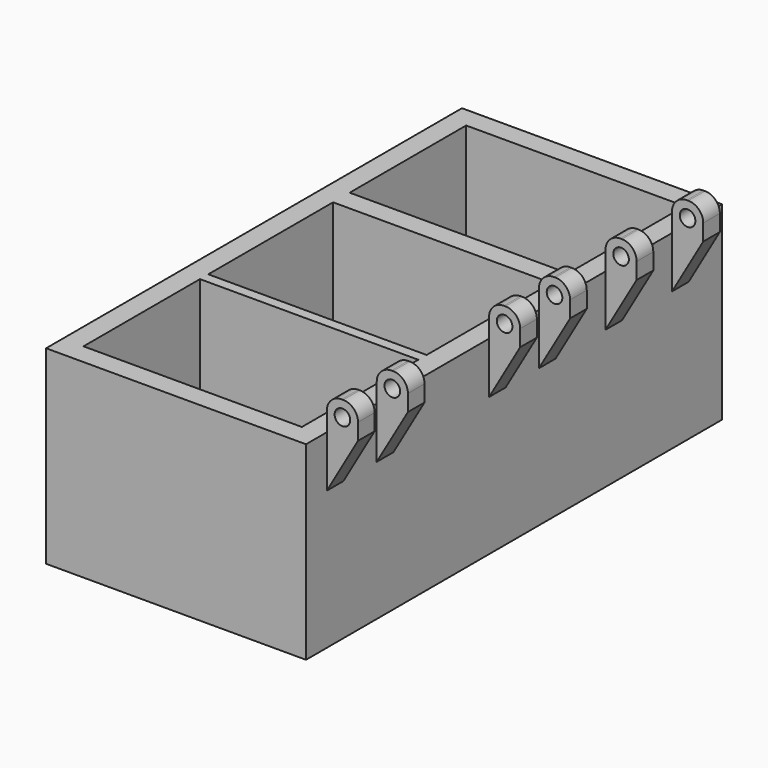
from build123d import *

# Parameters (mm, degrees)
F0_W      = 50
F0_H      = 100
F0_W_2    = 42
F0_H_2    = 60
F0_H_3    = 28
F1_DEPTH  = 35
F2_W      = 50
F2_H      = 100
F3_DEPTH  = 2
F4_R      = 1.5
F5_DEPTH  = 100
F6_R      = 2.85
F7_W      = 15
F7_H      = 5
F7_H_2    = 12
F7_H_3    = 8
F7_H_4    = 23
F8_DEPTH  = 74.9
F9_W      = 42
F9_H      = 60
F9_H_2    = 28
F10_DEPTH = 0.5
F11_W     = 42
F11_H     = 2
F12_DEPTH = 34.5


with BuildPart() as f1:
    # F0 (on Top) → F1 (new body)
    with BuildSketch(Plane.XY):
        with Locations((25, 50)):
            Rectangle(F0_W, F0_H)
        with Locations((25, 34)):
            Rectangle(F0_W_2, F0_H_2, mode=Mode.SUBTRACT)
        with Locations((25, 82)):
            Rectangle(F0_W_2, F0_H_3, mode=Mode.SUBTRACT)
    extrude(amount=F1_DEPTH)

    # F2 (on face) → F3 (join)
    with BuildSketch(Plane(origin=(0, 0, 0), x_dir=(1, 0, 0), z_dir=(0, 0, -1))):
        with Locations((25, -50)):
            Rectangle(F2_W, F2_H)
    extrude(amount=F3_DEPTH)

    # F4 (on face) → F5 (join, through all)
    with BuildSketch(Plane.XZ):
        Polygon((50, 35), (50, 24.607695), (56, 35), (56, 41), (50, 41), align=None)
        with Locations((53, 38)):
            Circle(F4_R, mode=Mode.SUBTRACT)
    extrude(amount=-F5_DEPTH)

    # F6
    f6_edges = [f1.edges().sort_by_distance(p)[0] for p in [
        (56, 50, 41),
        (50, 50, 41),
    ]]
    fillet(f6_edges, radius=F6_R)

    # F7 (on face) → F8 (cut)
    with BuildSketch(Plane(origin=(0, 0, -2), x_dir=(1, 0, 0), z_dir=(0, 0, -1))):
        with Locations((57.5, -2.5)):
            Rectangle(F7_W, F7_H)
        with Locations((57.5, -66)):
            Rectangle(F7_W, F7_H_2)
        with Locations((57.5, -96)):
            Rectangle(F7_W, F7_H_3)
        with Locations((57.5, -82)):
            Rectangle(F7_W, F7_H_2)
        with Locations((57.5, -52)):
            Rectangle(F7_W, F7_H_3)
        with Locations((57.5, -13)):
            Rectangle(F7_W, F7_H_3)
        with Locations((57.5, -32.5)):
            Rectangle(F7_W, F7_H_4)
    extrude(amount=-F8_DEPTH, mode=Mode.SUBTRACT)

    # F9 (on face) → F10 (cut)
    with BuildSketch(Plane.XY.offset(35)):
        Polygon((0, 100), (0, 0), (50, 0), (50, 5), (50, 9), (50, 17), (50, 21), (50, 44), (50, 48), (50, 56), (50, 60), (50, 72), (50, 76), (50, 88), (50, 92), (50, 100), align=None)
        with Locations((25, 34)):
            Rectangle(F9_W, F9_H, mode=Mode.SUBTRACT)
        with Locations((25, 82)):
            Rectangle(F9_W, F9_H_2, mode=Mode.SUBTRACT)
    extrude(amount=-F10_DEPTH, mode=Mode.SUBTRACT)

    # F11 (on face) → F12 (join, through all)
    with BuildSketch(Plane.XY.offset(34.5)):
        with Locations((25, 33)):
            Rectangle(F11_W, F11_H)
    extrude(amount=-F12_DEPTH)


solid = f1.part
